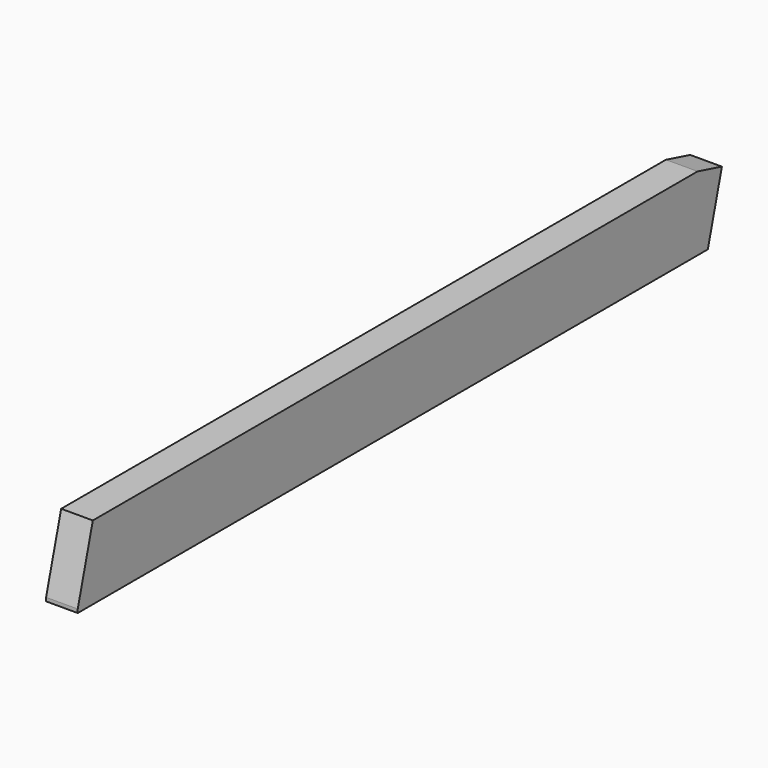
from build123d import *

# Parameters (mm, degrees)
F0_W     = 38.1
F0_H     = 88.9
F1_DEPTH = 971.64906
F3_DEPTH = 25.4
F5_DEPTH = 25.4


with BuildPart() as f1:
    # F0 (on Front) → F1 (new body)
    with BuildSketch(Plane.XZ):
        Rectangle(F0_W, F0_H)
    extrude(amount=F1_DEPTH)

    # F2 (on Right) → F3 (cut, symmetric)
    with BuildSketch(Plane.YZ):
        Polygon((-972.82, -44.45), (-948.944, 44.45), (-972.82, 44.45), align=None)
    extrude(amount=F3_DEPTH, both=True, mode=Mode.SUBTRACT)

    # F4 (on Right) → F5 (cut, symmetric)
    with BuildSketch(Plane.YZ):
        Polygon((-23.876, -44.45), (0, -44.45), (0, 44.45), (-39.37, 44.45), (-2.688901, 34.621329), align=None)
    extrude(amount=F5_DEPTH, both=True, mode=Mode.SUBTRACT)


solid = f1.part
